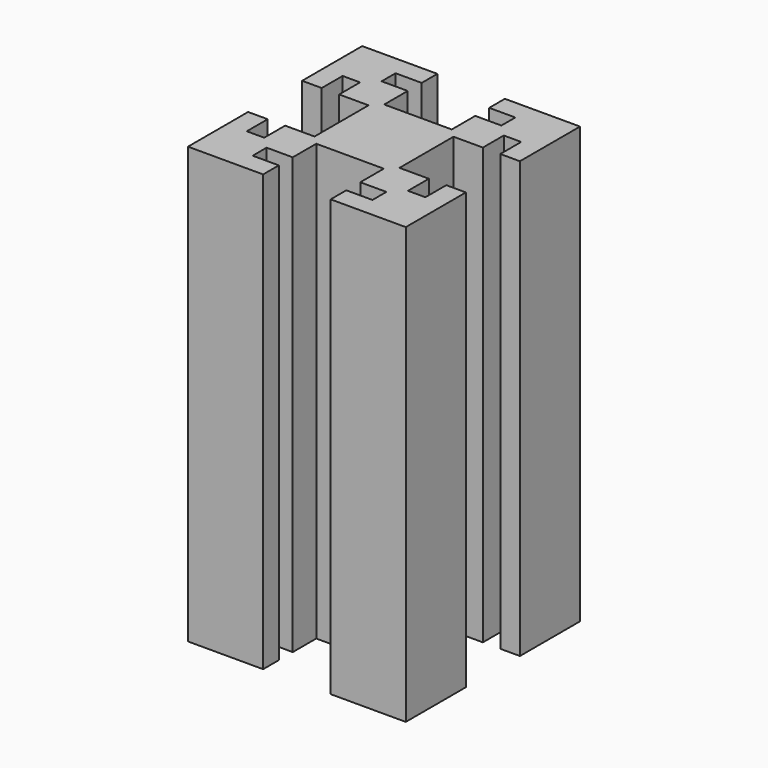
from build123d import *

# Parameters (mm, degrees)
BOX010_W     = 6.2
BOX010_H     = 6.1
BOX010_DEPTH = 50
BOX009_W     = 6.2
BOX009_H     = 6.1
BOX009_DEPTH = 50
BOX007_W     = 6.1
BOX007_H     = 6.2
BOX007_DEPTH = 50
BOX006_W     = 6.1
BOX006_H     = 6.2
BOX006_DEPTH = 50
BOX005_W     = 11
BOX005_H     = 1.6
BOX005_DEPTH = 50
BOX004_W     = 11
BOX004_H     = 1.6
BOX004_DEPTH = 50
BOX002_W     = 1.6
BOX002_H     = 11
BOX002_DEPTH = 50
BOX001_W     = 1.6
BOX001_H     = 11
BOX001_DEPTH = 52
BOX_W        = 20
BOX_H        = 20
BOX_DEPTH    = 40


with BuildPart() as cube009:
    # Box010 → Box010 (new body)
    with BuildSketch(Plane(origin=(6.9, 13.9, -7), x_dir=(1, 0, 0), z_dir=(0, 0, 1))):
        with Locations((3.1, 3.05)):
            Rectangle(BOX010_W, BOX010_H)
    extrude(amount=BOX010_DEPTH)


with BuildPart() as cube008:
    # Box009 → Box009 (new body)
    with BuildSketch(Plane(origin=(6.9, 0, -7), x_dir=(1, 0, 0), z_dir=(0, 0, 1))):
        with Locations((3.1, 3.05)):
            Rectangle(BOX009_W, BOX009_H)
    extrude(amount=BOX009_DEPTH)


with BuildPart() as cube006:
    # Box007 → Box007 (new body)
    with BuildSketch(Plane(origin=(13.9, 6.9, -7), x_dir=(1, 0, 0), z_dir=(0, 0, 1))):
        with Locations((3.05, 3.1)):
            Rectangle(BOX007_W, BOX007_H)
    extrude(amount=BOX007_DEPTH)


with BuildPart() as cube005:
    # Box006 → Box006 (new body)
    with BuildSketch(Plane(origin=(0, 6.9, -7), x_dir=(1, 0, 0), z_dir=(0, 0, 1))):
        with Locations((3.05, 3.1)):
            Rectangle(BOX006_W, BOX006_H)
    extrude(amount=BOX006_DEPTH)


with BuildPart() as cube004:
    # Box005 → Box005 (new body)
    with BuildSketch(Plane(origin=(4.5, 16.6, -6), x_dir=(1, 0, 0), z_dir=(0, 0, 1))):
        with Locations((5.5, 0.8)):
            Rectangle(BOX005_W, BOX005_H)
    extrude(amount=BOX005_DEPTH)


with BuildPart() as cube003:
    # Box004 → Box004 (new body)
    with BuildSketch(Plane(origin=(4.5, 1.8, -3), x_dir=(1, 0, 0), z_dir=(0, 0, 1))):
        with Locations((5.5, 0.8)):
            Rectangle(BOX004_W, BOX004_H)
    extrude(amount=BOX004_DEPTH)


with BuildPart() as cube001:
    # Box002 → Box002 (new body)
    with BuildSketch(Plane(origin=(16.6, 4.5, -6), x_dir=(1, 0, 0), z_dir=(0, 0, 1))):
        with Locations((0.8, 5.5)):
            Rectangle(BOX002_W, BOX002_H)
    extrude(amount=BOX002_DEPTH)


with BuildPart() as obj1:
    # Box001 → Box001 (new body)
    with BuildSketch(Plane(origin=(1.8, 4.5, -2), x_dir=(1, 0, 0), z_dir=(0, 0, 1))):
        with Locations((0.8, 5.5)):
            Rectangle(BOX001_W, BOX001_H)
    extrude(amount=BOX001_DEPTH)


with BuildPart() as cut007:
    # Box → Box (new body)
    with BuildSketch(Plane.XY):
        with Locations((10, 10)):
            Rectangle(BOX_W, BOX_H)
    extrude(amount=BOX_DEPTH)

    # Cut: cut obj1
    add(obj1.part, mode=Mode.SUBTRACT)


with BuildPart() as cut007_1:
    # Cut placement: moved
    add(cut007.part.moved(Location((0, 0, -3))))

    # Cut001: cut Cube001
    add(cube001.part, mode=Mode.SUBTRACT)

    # Cut002: cut Cube003
    add(cube003.part, mode=Mode.SUBTRACT)

    # Cut003: cut Cube004
    add(cube004.part, mode=Mode.SUBTRACT)

    # Cut004: cut Cube005
    add(cube005.part, mode=Mode.SUBTRACT)

    # Cut005: cut Cube006
    add(cube006.part, mode=Mode.SUBTRACT)

    # Cut006: cut Cube008
    add(cube008.part, mode=Mode.SUBTRACT)

    # Cut007: cut Cube009
    add(cube009.part, mode=Mode.SUBTRACT)


solid = cut007_1.part
